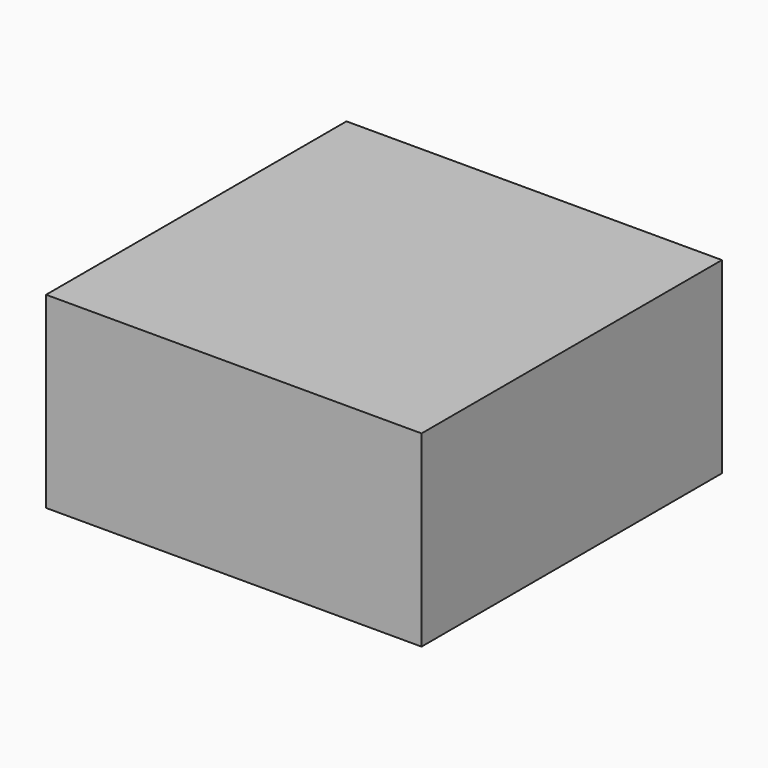
from build123d import *

# Parameters (mm, degrees)
F0_W     = 30
F0_H     = 30
F1_DEPTH = 15


with BuildPart() as f1:
    # F0 (on Top) → F1 (new body)
    with BuildSketch(Plane.XY):
        Rectangle(F0_W, F0_H)
    extrude(amount=F1_DEPTH)


with BuildPart() as f2_1:
    # F2: copy of F1
    add(f1.part)


solid = Compound([f1.part, f2_1.part])
